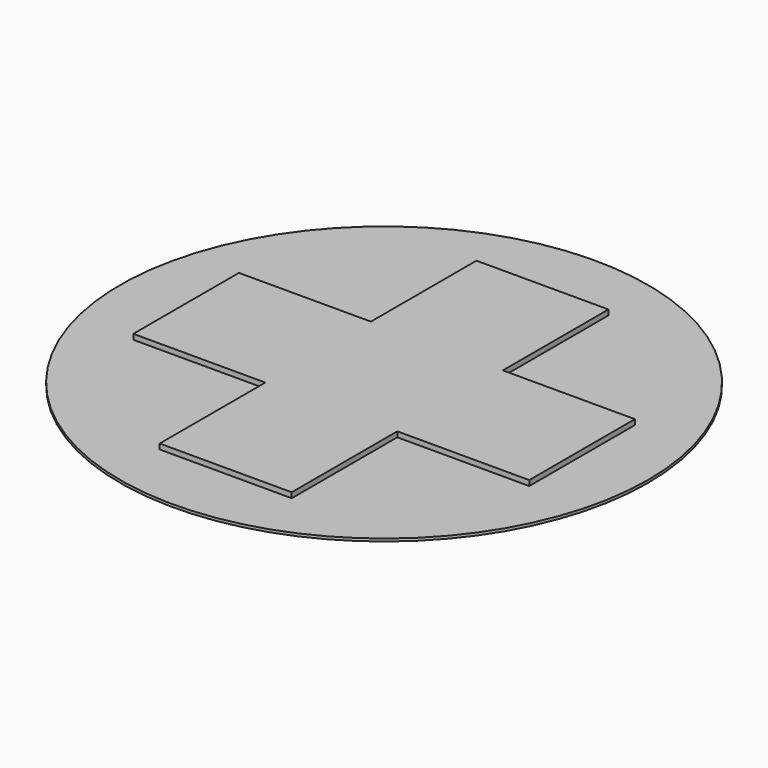
from build123d import *

# Parameters (mm, degrees)
CYLINDER_R             = 1
CYLINDER_DEPTH         = 0.01
BOX001_W               = 1.5
BOX001_H               = 0.5
BOX001_DEPTH           = 0.03
BOX001_PLACEMENT_ANGLE = 90
BOX_W                  = 1.5
BOX_H                  = 0.5
BOX_DEPTH              = 0.03


with BuildPart() as obj1:
    # Cylinder → Cylinder (new body)
    with BuildSketch(Plane.XY):
        Circle(CYLINDER_R)
    extrude(amount=CYLINDER_DEPTH)


with BuildPart() as box001:
    # Box001 → Box001 (new body)
    with BuildSketch(Plane.XY):
        with Locations((0.75, 0.25)):
            Rectangle(BOX001_W, BOX001_H)
    extrude(amount=BOX001_DEPTH)


with BuildPart() as box001_1:
    # Box001 placement: moved
    add(box001.part.moved(Location((0.25, -0.75, 0))).rotate(Axis((0.25, -0.75, 0), (0, 0, 1)), BOX001_PLACEMENT_ANGLE))


with BuildPart() as fid150x200cross:
    # Box → Box (new body)
    with BuildSketch(Plane(origin=(-0.75, -0.25, 0), x_dir=(1, 0, 0), z_dir=(0, 0, 1))):
        with Locations((0.75, 0.25)):
            Rectangle(BOX_W, BOX_H)
    extrude(amount=BOX_DEPTH)

    # Fusion: union Box001
    add(box001_1.part)

    # Fusion001: union obj1
    add(obj1.part)


solid = fid150x200cross.part
